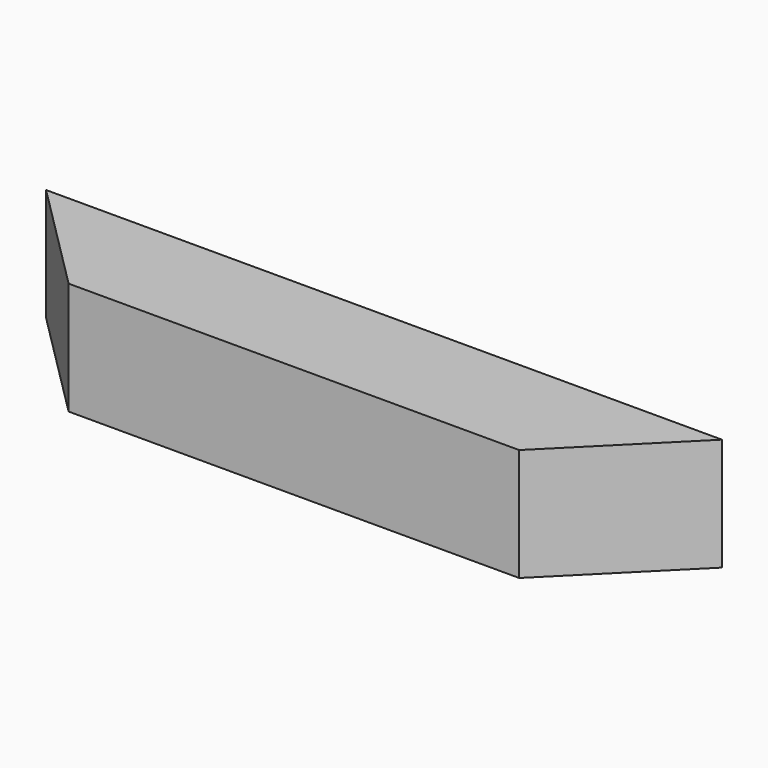
from build123d import *

# Parameters (mm, degrees)
F0_W     = 600
F0_H     = 100
F1_DEPTH = 100
F3_DEPTH = 100.001
F4_DEPTH = 100.001


with BuildPart() as f1:
    # F0 (on Front) → F1 (new body)
    with BuildSketch(Plane.XZ):
        Rectangle(F0_W, F0_H)
    extrude(amount=F1_DEPTH)

    # F2 (on face) → F3 (cut, through all)
    with BuildSketch(Plane.XY.offset(50)):
        Polygon((-200, -100), (-300, 0), (-300, -100), align=None)
    extrude(amount=-F3_DEPTH, mode=Mode.SUBTRACT)

    # F2 (on face) → F4 (cut, through all)
    with BuildSketch(Plane.XY.offset(50)):
        Polygon((300, -100), (300, 0), (200, -100), align=None)
    extrude(amount=-F4_DEPTH, mode=Mode.SUBTRACT)


solid = f1.part
